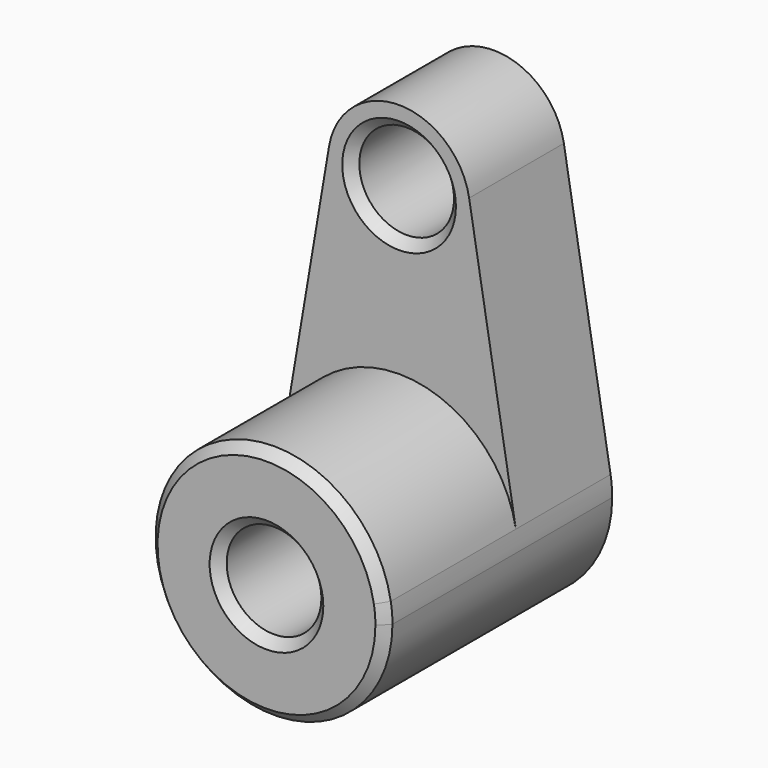
from build123d import *

# Parameters (mm, degrees)
F0_R     = 10
F1_DEPTH = 25
F2_DEPTH = 60
F3_SIZE  = 2


with BuildPart() as f1:
    # F0 (on Front) → F1 (new body)
    with BuildSketch(Plane.XZ):
        with BuildLine():
            ThreePointArc((-14.790199, 62.5), (-1.254394, 45.052542), (15, 60))
            ThreePointArc((15, 60), (14.947458, 61.254394), (14.790199, 62.5))
            ThreePointArc((14.790199, 62.5), (0, 75), (-14.790199, 62.5))
        make_face()
        with Locations((0, 60)):
            Circle(F0_R, mode=Mode.SUBTRACT)
        with BuildLine():
            ThreePointArc((14.790199, 62.5), (14.947458, 61.254394), (15, 60))
            ThreePointArc((15, 60), (-1.254394, 45.052542), (-14.790199, 62.5))
            Line((-14.790199, 62.5), (-24.650332, 4.166667))
            ThreePointArc((-24.650332, 4.166667), (0, 25), (24.650332, 4.166667))
            Line((24.650332, 4.166667), (14.790199, 62.5))
        make_face()
        with BuildLine():
            ThreePointArc((25, 0), (24.91243, 2.090657), (24.650332, 4.166667))
            ThreePointArc((24.650332, 4.166667), (0, 25), (-24.650332, 4.166667))
            ThreePointArc((-24.650332, 4.166667), (-2.090657, -24.91243), (25, 0))
        make_face()
        Circle(F0_R, mode=Mode.SUBTRACT)
    extrude(amount=F1_DEPTH)

    # F0 (on Front) → F2 (join)
    with BuildSketch(Plane.XZ):
        with BuildLine():
            ThreePointArc((25, 0), (24.91243, 2.090657), (24.650332, 4.166667))
            ThreePointArc((24.650332, 4.166667), (0, 25), (-24.650332, 4.166667))
            ThreePointArc((-24.650332, 4.166667), (-2.090657, -24.91243), (25, 0))
        make_face()
        Circle(F0_R, mode=Mode.SUBTRACT)
    extrude(amount=F2_DEPTH)

    # F3
    f3_edges = [f1.edges().sort_by_distance(p)[0] for p in [
        (-25, -60, 0),
        (-10, -60, 0),
        (-10, -25, 60),
    ]]
    chamfer(f3_edges, length=F3_SIZE)


solid = f1.part
